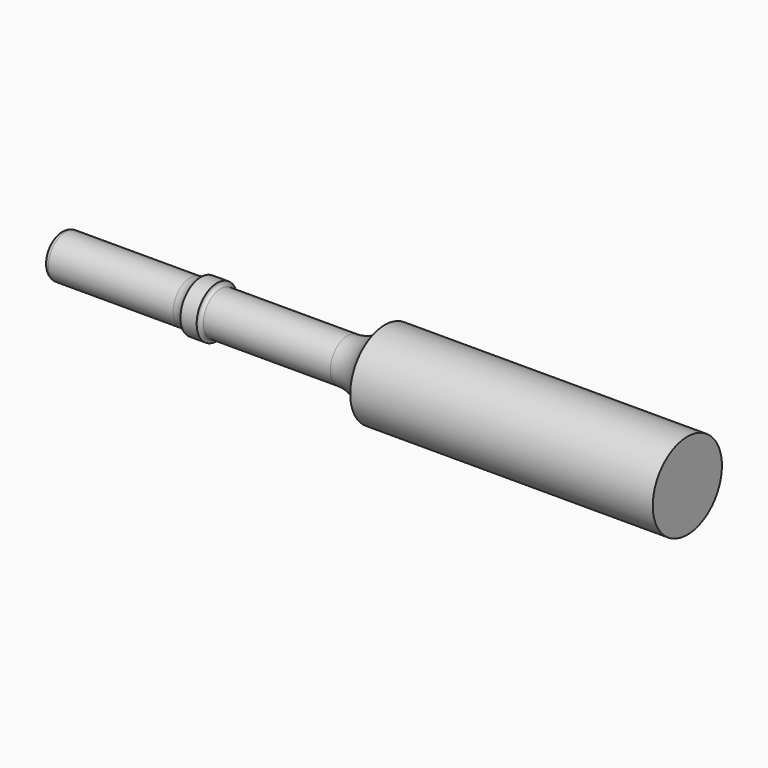
from build123d import *

# Parameters (mm, degrees)
F2_R = 1.524


with BuildPart() as f1:
    # F0 (on Front) → F1 (revolve)
    with BuildSketch(Plane.XZ):
        with BuildLine():
            Line((38.1, 0), (0, 0))
            Line((0, 0), (0, -6.35))
            Line((0, -6.35), (184.15, -6.35))
            Line((184.15, -6.35), (184.15, 6.35))
            Line((184.15, 6.35), (95.25, 6.35))
            ThreePointArc((95.25, 6.35), (90.6345, 1.702529), (84.30969, 0))
            Line((84.30969, 0), (47.001265, 0))
            ThreePointArc((47.001265, 0), (46.221986, 0.352497), (45.972167, 1.170495))
            Line((45.972167, 1.170495), (41.222367, 1.170495))
            ThreePointArc((41.222367, 1.170495), (39.767276, 0.30224), (38.1, 0))
        make_face()
    revolve(axis=Axis((92.075, 0, -6.35), (1, 0, 0)))

    # F2
    f2_edges = [f1.edges().sort_by_distance(p)[0] for p in [
        (0, 0, -12.7),
    ]]
    fillet(f2_edges, radius=F2_R)


solid = f1.part
